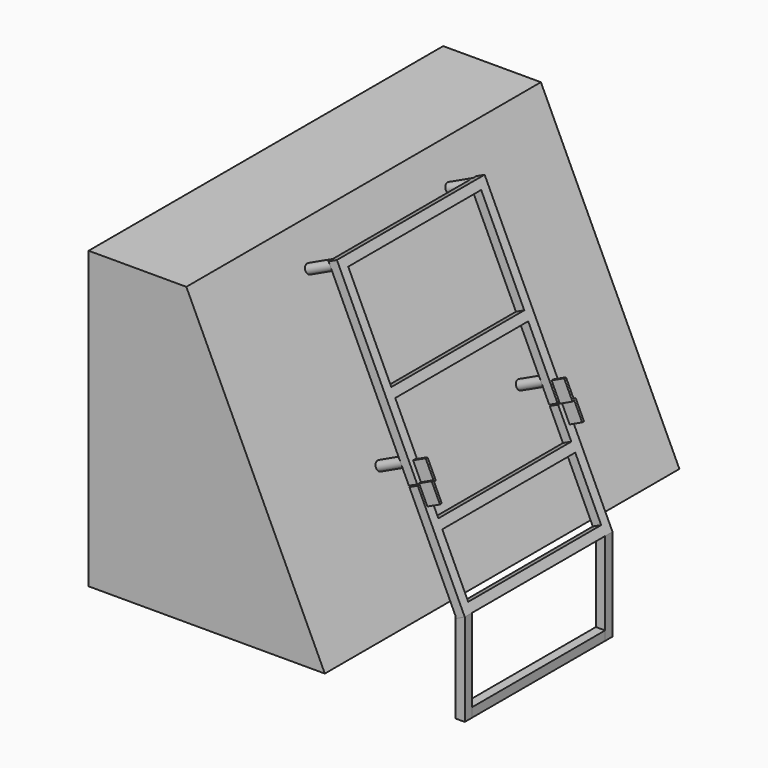
from build123d import *

# Parameters (mm, degrees)
F1_DEPTH  = 609.6
F2_R      = 12.7
F3_DEPTH  = 76.2
F4_W      = 457.2
F4_H      = 25.4
F5_DEPTH  = 25.4
F7_DEPTH  = 25.4
F9_DEPTH  = 25.4
F10_W     = 25.4
F10_H     = 25.4
F11_DEPTH = 457.2
F12_W     = 6.35
F12_H     = 50.8
F12_H_2   = 3.175
F13_DEPTH = 38.1


with BuildPart() as f1:
    # F0 (on Front) → F1 (new body, symmetric)
    with BuildSketch(Plane.XZ):
        Polygon((-649.8614549637, 0), (0, 0), (-381, 812.8), (-649.8614549637, 812.8), align=None)
    extrude(amount=F1_DEPTH, both=True)

    # F2 (on face) → F3 (join)
    with BuildSketch(Plane(origin=(0, 0, 0), x_dir=(0, 1, 0), z_dir=(0.905458936, 0, 0.4244338762))):
        with Locations((-241.3, 796.0663299913)):
            Circle(F2_R)
        with Locations((241.3, 796.0663299913)):
            Circle(F2_R)
        with Locations((241.3, 338.8663299913)):
            Circle(F2_R)
        with Locations((-241.3, 338.8663299913)):
            Circle(F2_R)
    extrude(amount=F3_DEPTH)

    # F4 (on face) → F5 (join)
    with BuildSketch(Plane(origin=(68.9959709201, 0, 32.3418613688), x_dir=(0, 1, 0), z_dir=(0.905458936, 0, 0.4244338762))):
        with BuildLine():
            Line((228.6, 796.0663299913), (-228.6, 796.0663299913))
            ThreePointArc((-228.6, 796.0663299913), (-232.3197438789, 787.0860738702), (-241.3, 783.3663299913))
            Line((-241.3, 783.3663299913), (-241.3, 351.5663299913))
            ThreePointArc((-241.3, 351.5663299913), (-232.3197438789, 347.8465861123), (-228.6, 338.8663299913))
            Line((-228.6, 338.8663299913), (-228.6, 478.5663299913))
            Line((-228.6, 478.5663299913), (-228.6, 503.9663299913))
            Line((-228.6, 503.9663299913), (-228.6, 783.3663299913))
            Line((-228.6, 783.3663299913), (228.6, 783.3663299913))
            Line((228.6, 783.3663299913), (228.6, 503.9663299913))
            Line((228.6, 503.9663299913), (228.6, 478.5663299913))
            Line((228.6, 478.5663299913), (228.6, 338.8663299913))
            ThreePointArc((228.6, 338.8663299913), (232.3197438789, 347.8465861123), (241.3, 351.5663299913))
            Line((241.3, 351.5663299913), (241.3, 783.3663299913))
            ThreePointArc((241.3, 783.3663299913), (232.3197438789, 787.0860738702), (228.6, 796.0663299913))
        make_face()
        with BuildLine():
            ThreePointArc((-241.3, 808.7663299913), (-232.3197438789, 805.0465861123), (-228.6, 796.0663299913))
            Line((-228.6, 796.0663299913), (228.6, 796.0663299913))
            ThreePointArc((228.6, 796.0663299913), (232.3197438789, 805.0465861123), (241.3, 808.7663299913))
            Line((241.3, 808.7663299913), (-241.3, 808.7663299913))
        make_face()
        with BuildLine():
            Line((-241.3, 351.5663299913), (-241.3, 783.3663299913))
            ThreePointArc((-241.3, 783.3663299913), (-250.2802561211, 787.0860738702), (-254, 796.0663299913))
            Line((-254, 796.0663299913), (-254, 338.8663299913))
            ThreePointArc((-254, 338.8663299913), (-250.2802561211, 347.8465861123), (-241.3, 351.5663299913))
        make_face()
        with BuildLine():
            ThreePointArc((254, 796.0663299913), (250.2802561211, 787.0860738702), (241.3, 783.3663299913))
            Line((241.3, 783.3663299913), (241.3, 351.5663299913))
            ThreePointArc((241.3, 351.5663299913), (250.2802561211, 347.8465861123), (254, 338.8663299913))
            Line((254, 338.8663299913), (254, 796.0663299913))
        make_face()
        with BuildLine():
            ThreePointArc((241.3, 808.7663299913), (232.3197438789, 805.0465861123), (228.6, 796.0663299913))
            Line((228.6, 796.0663299913), (241.3, 796.0663299913))
            Line((241.3, 796.0663299913), (241.3, 783.3663299913))
            ThreePointArc((241.3, 783.3663299913), (250.2802561211, 787.0860738702), (254, 796.0663299913))
            ThreePointArc((254, 796.0663299913), (250.2802561211, 805.0465861123), (241.3, 808.7663299913))
        make_face()
        with BuildLine():
            Line((241.3, 796.0663299913), (228.6, 796.0663299913))
            ThreePointArc((228.6, 796.0663299913), (232.3197438789, 787.0860738702), (241.3, 783.3663299913))
            Line((241.3, 783.3663299913), (241.3, 796.0663299913))
        make_face()
        with BuildLine():
            Line((254, 808.7663299913), (241.3, 808.7663299913))
            ThreePointArc((241.3, 808.7663299913), (250.2802561211, 805.0465861123), (254, 796.0663299913))
            Line((254, 796.0663299913), (254, 808.7663299913))
        make_face()
        with BuildLine():
            Line((-241.3, 796.0663299913), (-228.6, 796.0663299913))
            ThreePointArc((-228.6, 796.0663299913), (-232.3197438789, 805.0465861123), (-241.3, 808.7663299913))
            ThreePointArc((-241.3, 808.7663299913), (-250.2802561211, 805.0465861123), (-254, 796.0663299913))
            ThreePointArc((-254, 796.0663299913), (-250.2802561211, 787.0860738702), (-241.3, 783.3663299913))
            Line((-241.3, 783.3663299913), (-241.3, 796.0663299913))
        make_face()
        with BuildLine():
            ThreePointArc((-254, 796.0663299913), (-250.2802561211, 805.0465861123), (-241.3, 808.7663299913))
            Line((-241.3, 808.7663299913), (-254, 808.7663299913))
            Line((-254, 808.7663299913), (-254, 796.0663299913))
        make_face()
        with BuildLine():
            ThreePointArc((-241.3, 783.3663299913), (-232.3197438789, 787.0860738702), (-228.6, 796.0663299913))
            Line((-228.6, 796.0663299913), (-241.3, 796.0663299913))
            Line((-241.3, 796.0663299913), (-241.3, 783.3663299913))
        make_face()
        with Locations((0, 491.2663299913)):
            Rectangle(F4_W, F4_H)
        with BuildLine():
            Line((-241.3, 326.1663299913), (-241.3, 351.5663299913))
            ThreePointArc((-241.3, 351.5663299913), (-250.2802561211, 347.8465861123), (-254, 338.8663299913))
            ThreePointArc((-254, 338.8663299913), (-250.2802561211, 329.8860738702), (-241.3, 326.1663299913))
        make_face()
        with BuildLine():
            ThreePointArc((-228.6, 338.8663299913), (-232.3197438789, 347.8465861123), (-241.3, 351.5663299913))
            Line((-241.3, 351.5663299913), (-241.3, 326.1663299913))
            ThreePointArc((-241.3, 326.1663299913), (-232.3197438789, 329.8860738702), (-228.6, 338.8663299913))
        make_face()
        with BuildLine():
            ThreePointArc((-228.6, 338.8663299913), (-232.3197438789, 329.8860738702), (-241.3, 326.1663299913))
            Line((-241.3, 326.1663299913), (-241.3, 288.0663299913))
            Line((-241.3, 288.0663299913), (-228.6, 288.0663299913))
            Line((-228.6, 288.0663299913), (-228.6, 338.8663299913))
        make_face()
        with BuildLine():
            ThreePointArc((-241.3, 326.1663299913), (-250.2802561211, 329.8860738702), (-254, 338.8663299913))
            Line((-254, 338.8663299913), (-254, 288.0663299913))
            Line((-254, 288.0663299913), (-241.3, 288.0663299913))
            Line((-241.3, 288.0663299913), (-241.3, 326.1663299913))
        make_face()
        with BuildLine():
            ThreePointArc((254, 338.8663299913), (250.2802561211, 347.8465861123), (241.3, 351.5663299913))
            Line((241.3, 351.5663299913), (241.3, 326.1663299913))
            ThreePointArc((241.3, 326.1663299913), (250.2802561211, 329.8860738702), (254, 338.8663299913))
        make_face()
        with BuildLine():
            Line((241.3, 326.1663299913), (241.3, 351.5663299913))
            ThreePointArc((241.3, 351.5663299913), (232.3197438789, 347.8465861123), (228.6, 338.8663299913))
            ThreePointArc((228.6, 338.8663299913), (232.3197438789, 329.8860738702), (241.3, 326.1663299913))
        make_face()
        with BuildLine():
            ThreePointArc((241.3, 326.1663299913), (232.3197438789, 329.8860738702), (228.6, 338.8663299913))
            Line((228.6, 338.8663299913), (228.6, 288.0663299913))
            Line((228.6, 288.0663299913), (241.3, 288.0663299913))
            Line((241.3, 288.0663299913), (241.3, 326.1663299913))
        make_face()
        with BuildLine():
            Line((254, 288.0663299913), (254, 338.8663299913))
            ThreePointArc((254, 338.8663299913), (250.2802561211, 329.8860738702), (241.3, 326.1663299913))
            Line((241.3, 326.1663299913), (241.3, 288.0663299913))
            Line((241.3, 288.0663299913), (254, 288.0663299913))
        make_face()
    extrude(amount=F5_DEPTH)


with BuildPart() as f5:
    # F4 (on face) → F5, piece 2 (new body)
    with BuildSketch(Plane(origin=(68.9959709201, 0, 32.3418613688), x_dir=(0, 1, 0), z_dir=(0.905458936, 0, 0.4244338762))):
        Polygon((-228.6, 284.8913299913), (-254, 284.8913299913), (-254, -19.9086700087), (-228.6, -19.9086700087), (-228.6, 5.4913299913), (-228.6, 173.7663299913), (-228.6, 199.1663299913), align=None)
        Polygon((228.6, 284.8913299913), (228.6, 199.1663299913), (228.6, 173.7663299913), (228.6, 5.4913299913), (228.6, -19.9086700087), (254, -19.9086700087), (254, 284.8913299913), align=None)
        with Locations((0, 186.4663299913)):
            Rectangle(F4_W, F4_H)
        with Locations((0, -7.2086700087)):
            Rectangle(F4_W, F4_H)
    extrude(amount=F5_DEPTH)


with BuildPart() as f7:
    # F6 (on face) → F7 (new body)
    with BuildSketch(Plane.XZ.offset(254)):
        Polygon((100.4445418758, -228.9040013374), (100.4445418758, 25.0959986626), (77.4458849025, 14.3153782063), (75.0445418758, 19.4382433298), (75.0445418758, -228.9040013374), align=None)
    extrude(amount=-F7_DEPTH)


with BuildPart() as f9:
    # F8 (on face) → F9 (new body)
    with BuildSketch(Plane(origin=(0, 254, 0), x_dir=(-1, 0, 0), z_dir=(0, 1, 0))):
        Polygon((-77.4458849025, 14.3153782063), (-100.4445418758, 25.0959986626), (-100.4445418758, -228.9040013374), (-75.0445418758, -228.9040013374), (-75.0445418758, 19.4382433298), align=None)
    extrude(amount=-F9_DEPTH)


with BuildPart() as f11:
    # F10 (on face) → F11 (new body, through all)
    with BuildSketch(Plane(origin=(0, -228.6, 0), x_dir=(-1, 0, 0), z_dir=(0, 1, 0))):
        with Locations((-87.7445418758, -216.2040013374)):
            Rectangle(F10_W, F10_H)
    extrude(amount=F11_DEPTH)


with BuildPart() as f13:
    # F12 (on face) → F13 (new body)
    with BuildSketch(Plane(origin=(91.9946278934, 0, 43.122481825), x_dir=(0, 1, 0), z_dir=(0.905458936, 0, 0.4244338762))):
        Polygon((-241.3, 288.0663299913), (-241.3, 284.8913299913), (-234.95, 284.8913299913), (-234.95, 338.8663299913), (-241.3, 338.8663299913), align=None)
        with Locations((-244.475, 259.4913299913)):
            Rectangle(F12_W, F12_H)
        with Locations((-244.475, 286.4788299913)):
            Rectangle(F12_W, F12_H_2)
    extrude(amount=F13_DEPTH)


with BuildPart() as f13b:
    # F12 (on face) → F13, piece 2 (new body)
    with BuildSketch(Plane(origin=(91.9946278934, 0, 43.122481825), x_dir=(0, 1, 0), z_dir=(0.905458936, 0, 0.4244338762))):
        with Locations((244.475, 259.4913299913)):
            Rectangle(F12_W, F12_H)
        with Locations((244.475, 286.4788299913)):
            Rectangle(F12_W, F12_H_2)
        Polygon((234.95, 284.8913299913), (241.3, 284.8913299913), (241.3, 288.0663299913), (241.3, 338.8663299913), (234.95, 338.8663299913), align=None)
    extrude(amount=F13_DEPTH)


solid = Compound([f1.part, f5.part, f7.part, f9.part, f11.part, f13.part, f13b.part])
